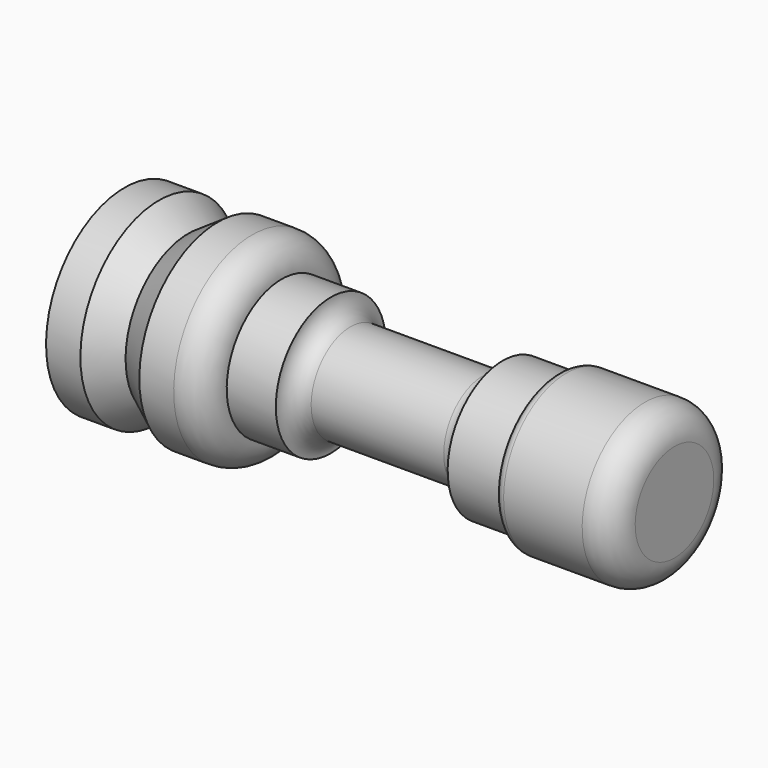
from build123d import *

# Parameters (mm, degrees)
F0_W = 3.5
F0_H = 10


with BuildPart() as f1:
    # F0 (on Front) → F1 (revolve)
    with BuildSketch(Plane.XZ):
        with BuildLine():
            Line((20.675624, 0), (-7.324376, 0))
            Line((-7.324376, 0), (-7.324376, -7))
            Line((-7.324376, -7), (-2.324376, -7))
            ThreePointArc((-2.324376, -7), (-1.73859, -5.585786), (-0.324376, -5))
            Line((-0.324376, -5), (13.177016, -5))
            ThreePointArc((13.177016, -5), (14.59123, -5.585786), (15.177016, -7))
            Line((15.177016, -7), (20.675624, -7))
            Line((20.675624, -7), (20.675624, 0))
        make_face()
        with BuildLine():
            Line((32.675624, 0), (20.675624, 0))
            Line((20.675624, 0), (20.675624, -7))
            ThreePointArc((20.675624, -7), (20.968517, -7.707107), (21.675624, -8))
            Line((21.675624, -8), (29.675624, -8))
            ThreePointArc((29.675624, -8), (31.796944, -7.12132), (32.675624, -5))
            Line((32.675624, -5), (32.675624, 0))
        make_face()
        Polygon((-16.824376, 0), (-19.824376, 0), (-19.824376, -10), (-16.824376, -8), align=None)
        with Locations((-21.574376, -5)):
            Rectangle(F0_W, F0_H)
        with BuildLine():
            Line((-7.324376, 0), (-13.824376, 0))
            Line((-13.824376, 0), (-13.824376, -10))
            Line((-13.824376, -10), (-10.324376, -10))
            ThreePointArc((-10.324376, -10), (-8.203056, -9.12132), (-7.324376, -7))
            Line((-7.324376, -7), (-7.324376, 0))
        make_face()
        Polygon((-13.824376, 0), (-16.824376, 0), (-16.824376, -8), (-13.824376, -10), align=None)
    revolve(axis=Axis((5.656604, 0, 0), (1, 0, 0)))


solid = f1.part
